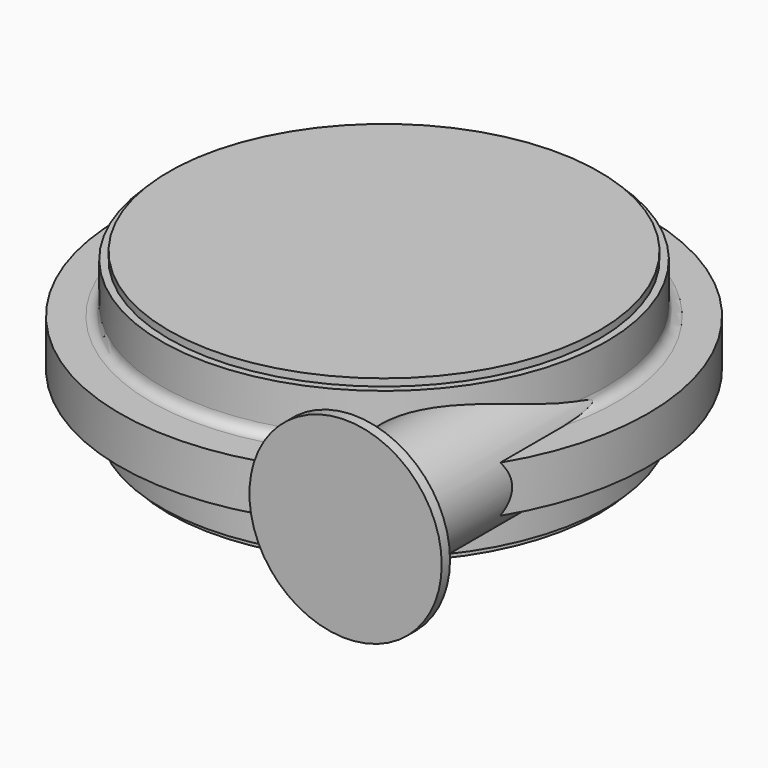
from build123d import *

# Parameters (mm, degrees)
F2_R     = 55
F3_DEPTH = 245
F4_R     = 92.5
F4_R_2   = 55
F5_DEPTH = 10


with BuildPart() as f1:
    # F0 (on Front) → F1 (revolve)
    with BuildSketch(Plane.XZ):
        with BuildLine():
            Line((0, 155), (0, 0))
            Line((0, 0), (207, 0))
            Line((207, 0), (207, 7))
            Line((207, 7), (214, 7))
            Line((214, 7), (214, 45))
            ThreePointArc((214, 45), (216.928932, 52.071068), (224, 55))
            Line((224, 55), (254, 55))
            Line((254, 55), (254, 100))
            Line((254, 100), (224, 100))
            ThreePointArc((224, 100), (216.928932, 102.928932), (214, 110))
            Line((214, 110), (214, 148))
            Line((214, 148), (207, 148))
            Line((207, 148), (207, 155))
            Line((207, 155), (0, 155))
        make_face()
    revolve(axis=Axis((0, 0, 77.5), (0, 0, 1)))

    # F2 (on Front) → F3 (join)
    with BuildSketch(Plane.XZ):
        with Locations((167, 77.5)):
            Circle(F2_R)
    extrude(amount=F3_DEPTH)

    # F4 (on face) → F5 (join)
    with BuildSketch(Plane.XZ.offset(245)):
        with Locations((167, 77.5)):
            Circle(F4_R)
        with Locations((167, 77.5)):
            Circle(F4_R_2, mode=Mode.SUBTRACT)
        with Locations((167, 77.5)):
            Circle(F4_R_2)
    extrude(amount=F5_DEPTH)


solid = f1.part
